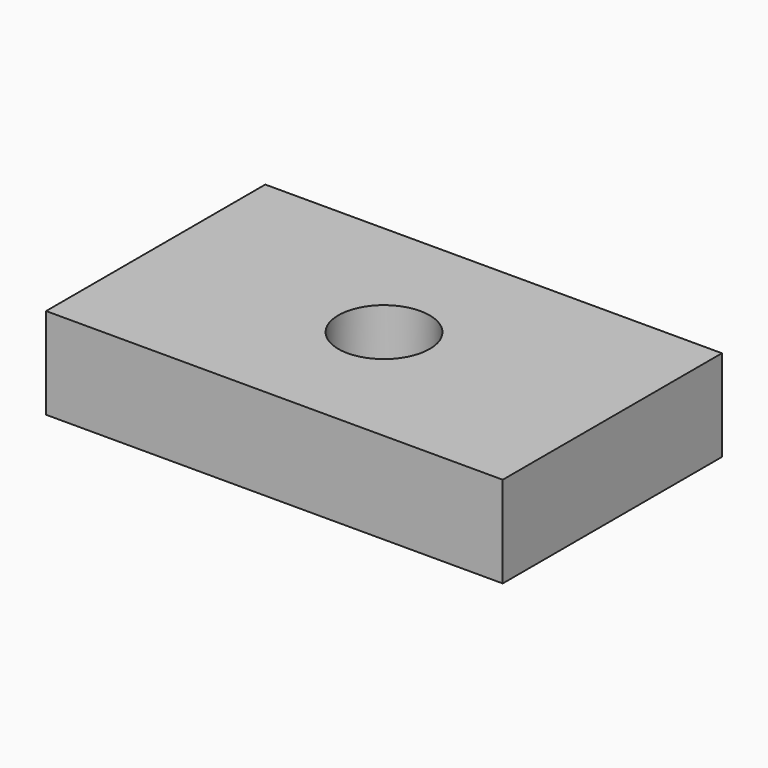
from build123d import *

# Parameters (mm, degrees)
F1_W     = 127
F1_H     = 76.2
F1_R     = 12.7
F2_DEPTH = 25.4


with BuildPart() as f2:
    # F1 (on face) → F2 (new body)
    with BuildSketch(Plane.XY):
        Rectangle(F1_W, F1_H)
        Circle(F1_R, mode=Mode.SUBTRACT)
    extrude(amount=F2_DEPTH)


solid = f2.part
